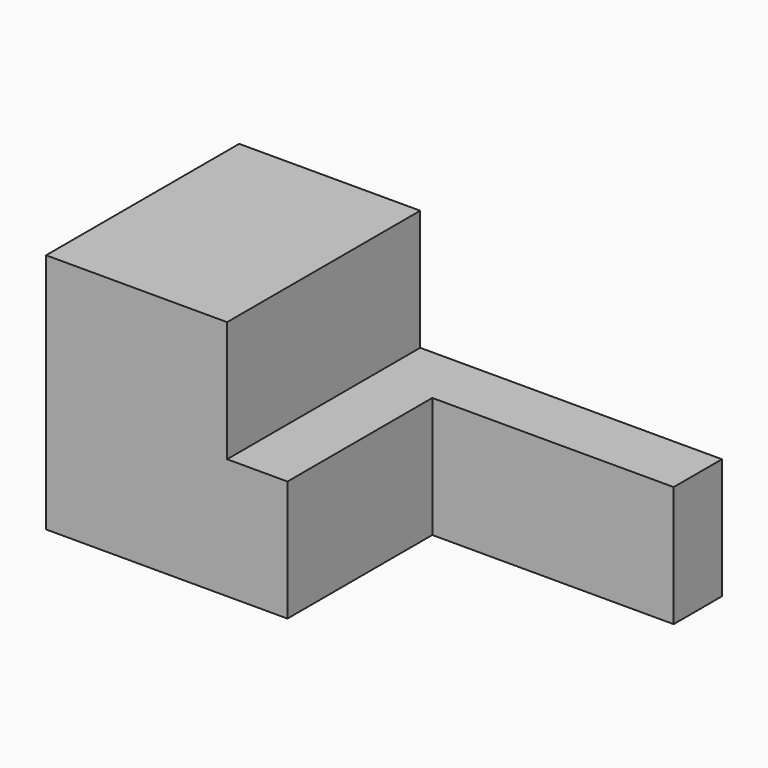
from build123d import *

# Parameters (mm, degrees)
F1_DEPTH = 101.6
F2_W     = 101.6
F2_H     = 76.2
F3_DEPTH = 101.6


with BuildPart() as f1:
    # F0 (on Front) → F1 (new body)
    with BuildSketch(Plane.XZ):
        Polygon((-203.2, 0), (0, 0), (0, 50.8), (-127, 50.8), (-127, 101.6), (-203.2, 101.6), align=None)
    extrude(amount=F1_DEPTH)

    # F2 (on face) → F3 (cut)
    with BuildSketch(Plane.XY.offset(50.8)):
        with Locations((-50.8, -63.5)):
            Rectangle(F2_W, F2_H)
    extrude(amount=-F3_DEPTH, mode=Mode.SUBTRACT)


solid = f1.part
